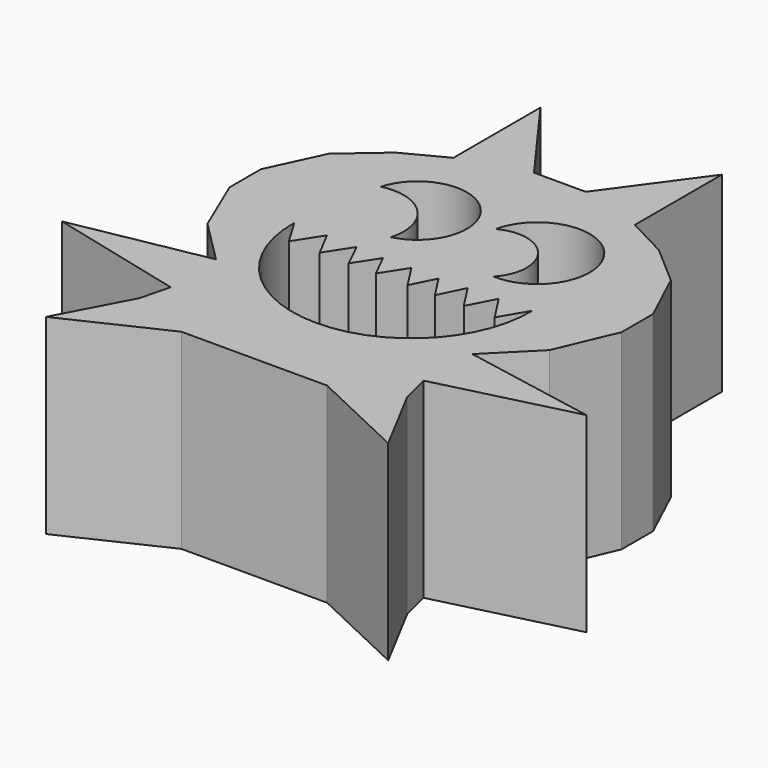
from build123d import *

# Parameters (mm, degrees)
F1_DEPTH = 25.4


with BuildPart() as f1:
    # F0 (on Top) → F1 (new body)
    with BuildSketch(Plane.XY):
        Polygon((3.438993, 52.810363), (0, 52.810363), (-3.438993, 52.810363), (-12.055073, 64.650342), (-12.055073, 50.188575), (-17.50787, 47.343638), (-22.723591, 42.839151), (-26.042685, 35.726808), (-26.042685, 30.511087), (-22.723591, 22.687506), (-17.033713, 16.99763), (-34.814578, 13.678537), (-16.796635, 9.174051), (-17.786786, 5.213449), (-22.723591, -4.10233), (-9.684291, 2.061706), (0, 2.061706), (9.684291, 2.061706), (22.723591, -4.10233), (17.786786, 5.213449), (16.796635, 9.174051), (34.814578, 13.678537), (17.033713, 16.99763), (22.723591, 22.687506), (26.042685, 30.511087), (26.042685, 35.726808), (22.723591, 42.839151), (17.50787, 47.343638), (12.055073, 50.188575), (12.055073, 64.650342), align=None)
        with BuildLine():
            Line((0, 28.152358), (2.106628, 24.893446))
            Line((2.106628, 24.893446), (3.690581, 28.051095))
            Line((3.690581, 28.051095), (5.731751, 24.893446))
            Line((5.731751, 24.893446), (7.37762, 28.281534))
            Line((7.37762, 28.281534), (9.56775, 24.893446))
            Line((9.56775, 24.893446), (11.410318, 28.396754))
            Line((11.410318, 28.396754), (13.674929, 24.893446))
            Line((13.674929, 24.893446), (15.806833, 28.470449))
            ThreePointArc((15.806833, 28.470449), (11.291284, 17.08601), (0, 12.342324))
            ThreePointArc((0, 12.342324), (-11.291284, 17.08601), (-15.806833, 28.470449))
            Line((-15.806833, 28.470449), (-13.674929, 24.893446))
            Line((-13.674929, 24.893446), (-11.410318, 28.396754))
            Line((-11.410318, 28.396754), (-9.56775, 24.893446))
            Line((-9.56775, 24.893446), (-7.37762, 28.281534))
            Line((-7.37762, 28.281534), (-5.731751, 24.893446))
            Line((-5.731751, 24.893446), (-3.690581, 28.051095))
            Line((-3.690581, 28.051095), (-2.106628, 24.893446))
            Line((-2.106628, 24.893446), (0, 28.152358))
        make_face(mode=Mode.SUBTRACT)
        with BuildLine():
            ThreePointArc((-13.887371, 40.411646), (-2.825893, 43.175839), (-5.975396, 32.217842))
            ThreePointArc((-5.975396, 32.217842), (-7.564462, 38.600254), (-13.887371, 40.411646))
        make_face(mode=Mode.SUBTRACT)
        with BuildLine():
            ThreePointArc((1.357192, 40.430977), (13.642513, 43.142847), (7.870124, 31.964167))
            ThreePointArc((7.870124, 31.964167), (8.192329, 38.950396), (1.357192, 40.430977))
        make_face(mode=Mode.SUBTRACT)
    extrude(amount=F1_DEPTH)


solid = f1.part
